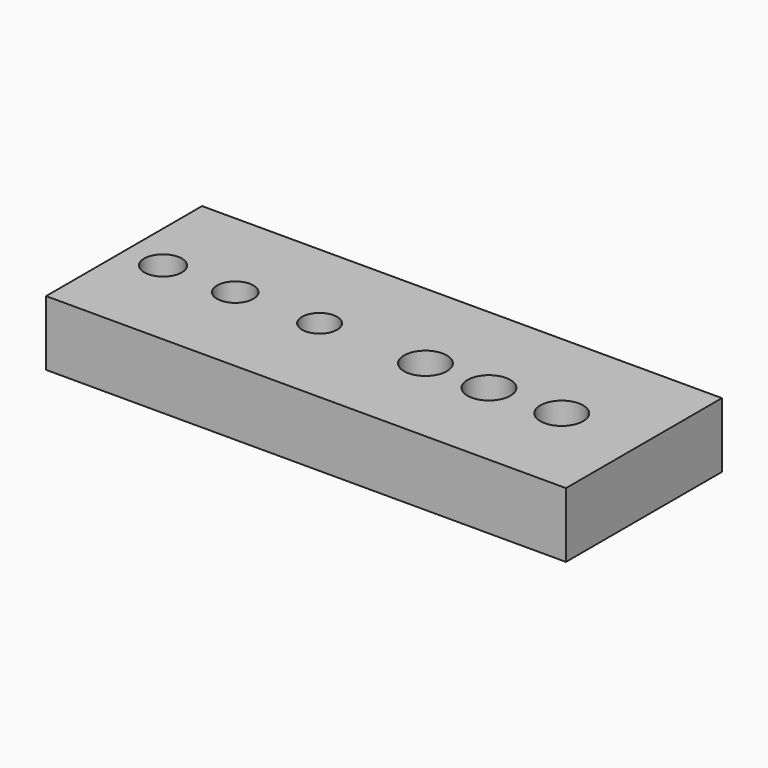
from build123d import *

# Parameters (mm, degrees)
SKETCH_W      = 40
SKETCH_H      = 15
PAD_DEPTH     = 5
SKETCH001_R   = 1.45
SKETCH001_R_2 = 1.4
SKETCH001_R_3 = 1.35
POCKET_DEPTH  = 20
SKETCH002_R   = 1.65
HOLE_DEPTH    = 25


with BuildPart() as part:
    # Sketch → Pad (new body)
    with BuildSketch(Plane.XY):
        Rectangle(SKETCH_W, SKETCH_H)
    extrude(amount=PAD_DEPTH)

    # Sketch001 (on Face6 of Pad) → Pocket (cut)
    with BuildSketch(Plane.XY.offset(5)):
        with Locations((-17, 0)):
            Circle(SKETCH001_R)
        with Locations((-11.444874, 0)):
            Circle(SKETCH001_R_2)
        with Locations((-4.956441, 0)):
            Circle(SKETCH001_R_3)
    extrude(amount=-POCKET_DEPTH, mode=Mode.SUBTRACT)

    # Sketch002 (on Face5 of Pocket) → Hole (cut)
    with BuildSketch(Plane.XY.offset(5)):
        with Locations((3.262239, -0.090117)):
            Circle(SKETCH002_R)
        with Locations((8.236705, -0.198258)):
            Circle(SKETCH002_R)
        with Locations((13.715827, -0.05407)):
            Circle(SKETCH002_R)
    extrude(amount=-HOLE_DEPTH, mode=Mode.SUBTRACT)


solid = part.part
